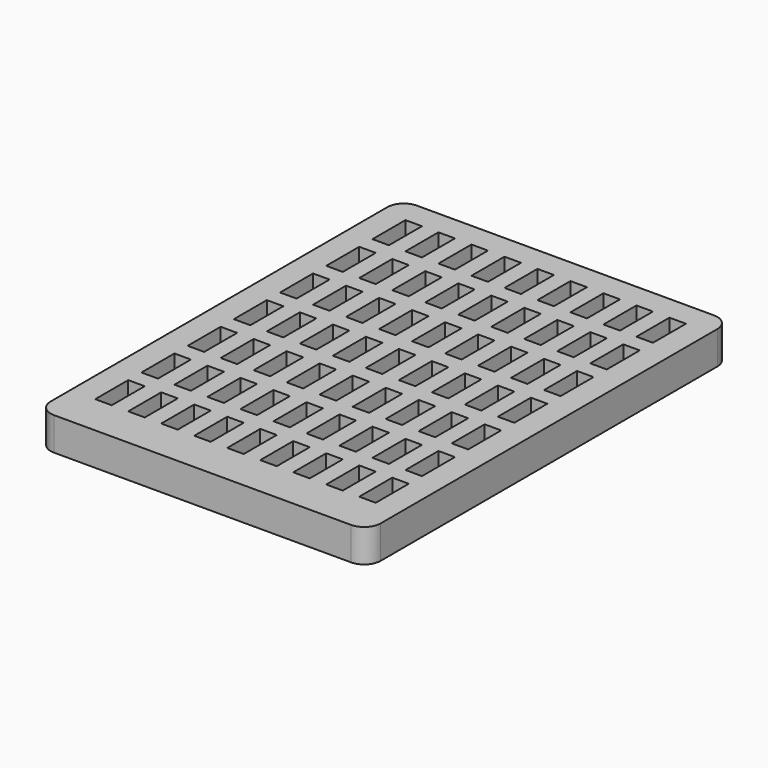
from build123d import *

# Parameters (mm, degrees)
F0_W     = 40
F0_H     = 55
F1_DEPTH = 4
F2_R     = 2
F3_W     = 2
F3_H     = 5
F3_H_2   = 4.9967082366
F4_DEPTH = 4


with BuildPart() as f1:
    # F0 (on Top) → F1 (new body)
    with BuildSketch(Plane.XY):
        Rectangle(F0_W, F0_H)
    extrude(amount=F1_DEPTH)

    # F2
    f2_edges = [f1.edges().sort_by_distance(p)[0] for p in [
        (-20, 27.5, 2),
        (20, 27.5, 2),
        (-20, -27.5, 2),
        (20, -27.5, 2),
    ]]
    fillet(f2_edges, radius=F2_R)

    # F3 (on face) → F4 (cut)
    with BuildSketch(Plane.XY.offset(4)):
        with Locations((-16, 22)):
            Rectangle(F3_W, F3_H)
        with Locations((-16, 15)):
            Rectangle(F3_W, F3_H)
        with Locations((-16, 8)):
            Rectangle(F3_W, F3_H)
        with Locations((-16, 1)):
            Rectangle(F3_W, F3_H)
        with Locations((-16, -5.9983541183)):
            Rectangle(F3_W, F3_H_2)
        with Locations((-16, -13)):
            Rectangle(F3_W, F3_H)
        with Locations((-12, -20)):
            Rectangle(F3_W, F3_H)
        with Locations((-12, -13)):
            Rectangle(F3_W, F3_H)
        with Locations((-12, -5.9983541183)):
            Rectangle(F3_W, F3_H_2)
        with Locations((-12, 1)):
            Rectangle(F3_W, F3_H)
        with Locations((-12, 8)):
            Rectangle(F3_W, F3_H)
        with Locations((-12, 15)):
            Rectangle(F3_W, F3_H)
        with Locations((-12, 22)):
            Rectangle(F3_W, F3_H)
        with Locations((-8, 22)):
            Rectangle(F3_W, F3_H)
        with Locations((-8, 15)):
            Rectangle(F3_W, F3_H)
        with Locations((-8, 8)):
            Rectangle(F3_W, F3_H)
        with Locations((-8, 1)):
            Rectangle(F3_W, F3_H)
        with Locations((-8, -5.9983541183)):
            Rectangle(F3_W, F3_H_2)
        with Locations((-8, -13)):
            Rectangle(F3_W, F3_H)
        with Locations((-16, -20)):
            Rectangle(F3_W, F3_H)
        with Locations((-8, -20)):
            Rectangle(F3_W, F3_H)
        with Locations((-4, -20)):
            Rectangle(F3_W, F3_H)
        with Locations((-4, -13)):
            Rectangle(F3_W, F3_H)
        with Locations((-4, -5.9983541183)):
            Rectangle(F3_W, F3_H_2)
        with Locations((-4, 1)):
            Rectangle(F3_W, F3_H)
        with Locations((-4, 8)):
            Rectangle(F3_W, F3_H)
        with Locations((-4, 15)):
            Rectangle(F3_W, F3_H)
        with Locations((-4, 22)):
            Rectangle(F3_W, F3_H)
        with Locations((0, 22)):
            Rectangle(F3_W, F3_H)
        with Locations((0, 15)):
            Rectangle(F3_W, F3_H)
        with Locations((0, 8)):
            Rectangle(F3_W, F3_H)
        with Locations((0, 1)):
            Rectangle(F3_W, F3_H)
        with Locations((0, -5.9983541183)):
            Rectangle(F3_W, F3_H_2)
        with Locations((0, -13)):
            Rectangle(F3_W, F3_H)
        with Locations((0, -20)):
            Rectangle(F3_W, F3_H)
        with Locations((4, -20)):
            Rectangle(F3_W, F3_H)
        with Locations((4, -13)):
            Rectangle(F3_W, F3_H)
        with Locations((4, -5.9983541183)):
            Rectangle(F3_W, F3_H_2)
        with Locations((4, 1)):
            Rectangle(F3_W, F3_H)
        with Locations((4, 8)):
            Rectangle(F3_W, F3_H)
        with Locations((4, 15)):
            Rectangle(F3_W, F3_H)
        with Locations((4, 22)):
            Rectangle(F3_W, F3_H)
        with Locations((8, 22)):
            Rectangle(F3_W, F3_H)
        with Locations((8, 15)):
            Rectangle(F3_W, F3_H)
        with Locations((8, 8)):
            Rectangle(F3_W, F3_H)
        with Locations((8, 1)):
            Rectangle(F3_W, F3_H)
        with Locations((8, -5.9983541183)):
            Rectangle(F3_W, F3_H_2)
        with Locations((8, -13)):
            Rectangle(F3_W, F3_H)
        with Locations((8, -20)):
            Rectangle(F3_W, F3_H)
        with Locations((12, -20)):
            Rectangle(F3_W, F3_H)
        with Locations((12, -13)):
            Rectangle(F3_W, F3_H)
        with Locations((12, -5.9983541183)):
            Rectangle(F3_W, F3_H_2)
        with Locations((12, 1)):
            Rectangle(F3_W, F3_H)
        with Locations((12, 8)):
            Rectangle(F3_W, F3_H)
        with Locations((12, 15)):
            Rectangle(F3_W, F3_H)
        with Locations((12, 22)):
            Rectangle(F3_W, F3_H)
        with Locations((16, 22)):
            Rectangle(F3_W, F3_H)
        with Locations((16, 15)):
            Rectangle(F3_W, F3_H)
        with Locations((16, 8)):
            Rectangle(F3_W, F3_H)
        with Locations((16, 1)):
            Rectangle(F3_W, F3_H)
        with Locations((16, -5.9983541183)):
            Rectangle(F3_W, F3_H_2)
        with Locations((16, -13)):
            Rectangle(F3_W, F3_H)
        with Locations((16, -20)):
            Rectangle(F3_W, F3_H)
    extrude(amount=-F4_DEPTH, mode=Mode.SUBTRACT)


solid = f1.part
